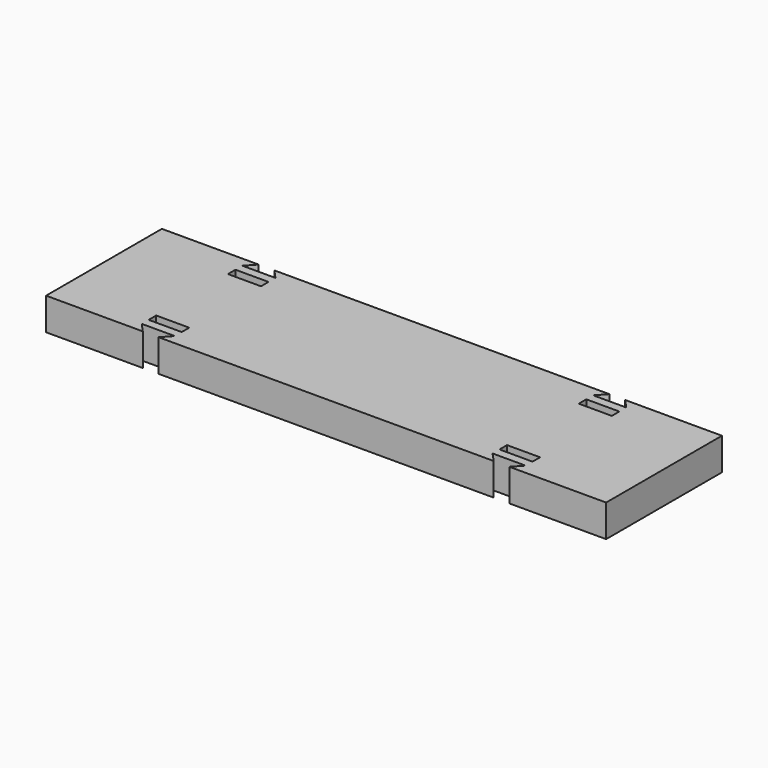
from build123d import *

# Parameters (mm, degrees)
F0_W     = 2260.6
F0_H     = 584.2
F1_DEPTH = 130.175
F2_W     = 133.35
F2_H     = 38.1
F3_DEPTH = 130.175


with BuildPart() as f1:
    # F0 (on Top) → F1 (new body)
    with BuildSketch(Plane.XY):
        Rectangle(F0_W, F0_H)
    extrude(amount=F1_DEPTH)

    # F2 (on face) → F3 (cut)
    with BuildSketch(Plane.XY.offset(130.175)):
        with Locations((-708.025, -200.025)):
            Rectangle(F2_W, F2_H)
        Polygon((-676.275, -292.1), (-641.35, -254), (-774.7, -254), (-739.775, -292.1), align=None)
        with Locations((708.025, -200.025)):
            Rectangle(F2_W, F2_H)
        Polygon((739.775, -292.1), (774.7, -254), (641.35, -254), (676.275, -292.1), align=None)
        with Locations((-708.025, 200.025)):
            Rectangle(F2_W, F2_H)
        Polygon((-739.775, 292.1), (-774.7, 254), (-641.35, 254), (-676.275, 292.1), align=None)
        with Locations((708.025, 200.025)):
            Rectangle(F2_W, F2_H)
        Polygon((676.275, 292.1), (641.35, 254), (774.7, 254), (739.775, 292.1), align=None)
    extrude(amount=-F3_DEPTH, mode=Mode.SUBTRACT)


solid = f1.part
